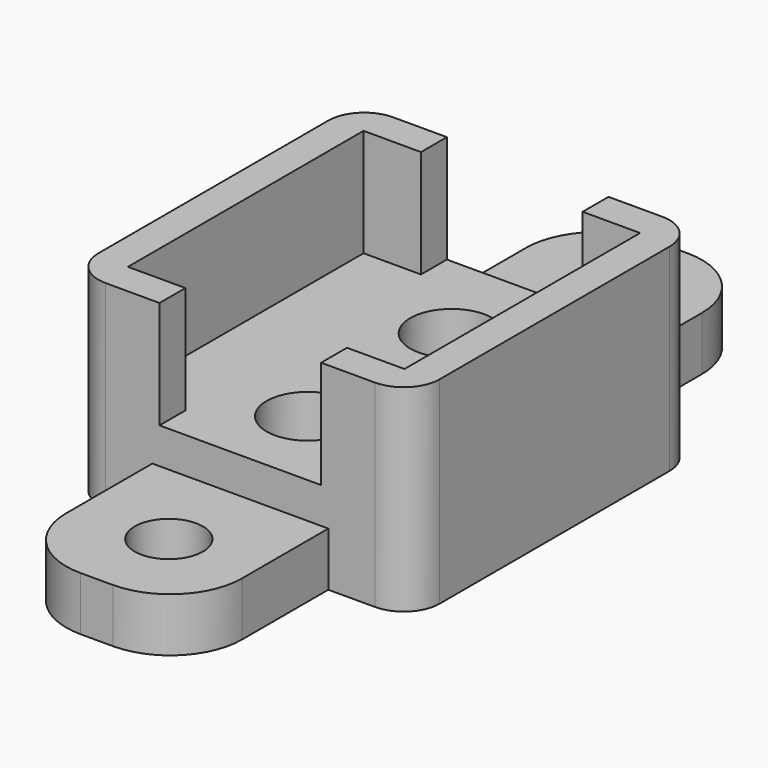
from build123d import *

# Parameters (mm, degrees)
PAD_DEPTH         = 10
CYLINDER_R        = 2.3
CYLINDER_DEPTH    = 3
ARRAY_Y_COUNT     = 2
ARRAY_Y_PITCH     = 10
BOX_W             = 19
BOX_H             = 20
BOX_DEPTH         = 11
FILLET_R          = 2
CYLINDER001_R     = 1.9
CYLINDER001_DEPTH = 10
ARRAY002_Y_COUNT  = 2
ARRAY002_Y_PITCH  = 30
BOX005_W          = 9.8
BOX005_H          = 40
BOX005_DEPTH      = 3
FILLET002_R       = 4


with BuildPart() as obj1:
    # Sketch → Pad (new body)
    with BuildSketch(Plane.XY):
        Polygon((-4.5, 10.3), (4.5, 10.3), (4.5, 8.2), (7.7, 8.2), (7.7, -8.2), (4.5, -8.2), (4.5, -10.3), (-4.5, -10.3), (-4.5, -8.2), (-7.7, -8.2), (-7.7, 8.2), (-4.5, 8.2), align=None)
    extrude(amount=PAD_DEPTH)


with BuildPart() as obj1_1:
    # Body placement: moved
    add(obj1.part.moved(Location((0, 0, 3))))


with BuildPart() as obj2:
    # Cylinder → Cylinder (new body)
    with BuildSketch(Plane.XY):
        Circle(CYLINDER_R)
    extrude(amount=CYLINDER_DEPTH)

    # Array Y: obj2_2


with BuildPart() as obj2_1:
    add(obj2.part)
    with Locations(*[(0, i * ARRAY_Y_PITCH, 0) for i in range(1, ARRAY_Y_COUNT)]):
        add(obj2.part)


with BuildPart() as obj2_2:
    # Array placement: moved
    add(obj2_1.part.moved(Location((0, -5.3, 0))))

    # Fusion: union obj1
    add(obj1_1.part)


with BuildPart() as obj3:
    # Box → Box (new body)
    with BuildSketch(Plane(origin=(-9.5, -10, -2), x_dir=(1, 0, 0), z_dir=(0, 0, 1))):
        with Locations((9.5, 10)):
            Rectangle(BOX_W, BOX_H)
    extrude(amount=BOX_DEPTH)

    # Fillet
    fillet_edges = [obj3.edges().sort_by_distance(p)[0] for p in [
        (-9.5, -10, 3.5),
        (-9.5, 10, 3.5),
        (9.5, -10, 3.5),
        (9.5, 10, 3.5),
    ]]
    fillet(fillet_edges, radius=FILLET_R)


with BuildPart() as attach_hole_array:
    # Cylinder001 → Cylinder001 (new body)
    with BuildSketch(Plane(origin=(5, 4.9, 0), x_dir=(1, 0, 0), z_dir=(0, 0, 1))):
        Circle(CYLINDER001_R)
    extrude(amount=CYLINDER001_DEPTH)

    # Array002 Y: attach hole array ×2


with BuildPart() as attach_hole_array_1:
    add(attach_hole_array.part)
    with Locations(*[(0, i * ARRAY002_Y_PITCH, 0) for i in range(1, ARRAY002_Y_COUNT)]):
        add(attach_hole_array.part)


with BuildPart() as obj4:
    # Box005 → Box005 (new body)
    with BuildSketch(Plane.XY):
        with Locations((4.9, 20)):
            Rectangle(BOX005_W, BOX005_H)
    extrude(amount=BOX005_DEPTH)

    # Fillet002
    fillet002_edges = [obj4.edges().sort_by_distance(p)[0] for p in [
        (0, 0, 1.5),
        (0, 40, 1.5),
        (9.8, 0, 1.5),
        (9.8, 40, 1.5),
    ]]
    fillet(fillet002_edges, radius=FILLET002_R)

    # Cut002: cut attach hole array
    add(attach_hole_array_1.part, mode=Mode.SUBTRACT)


with BuildPart() as obj4_1:
    # Cut002 placement: moved
    add(obj4.part.moved(Location((-4.9, -20, -2))))

    # Fusion001: union obj3
    add(obj3.part)

    # Cut: cut obj2
    add(obj2_2.part, mode=Mode.SUBTRACT)


with BuildPart() as obj5:
    # Cut003 base: copy of obj3
    add(obj3.part)

    # Cut003: cut obj2
    add(obj2_2.part, mode=Mode.SUBTRACT)


solid = Compound([obj4_1.part, obj5.part])
